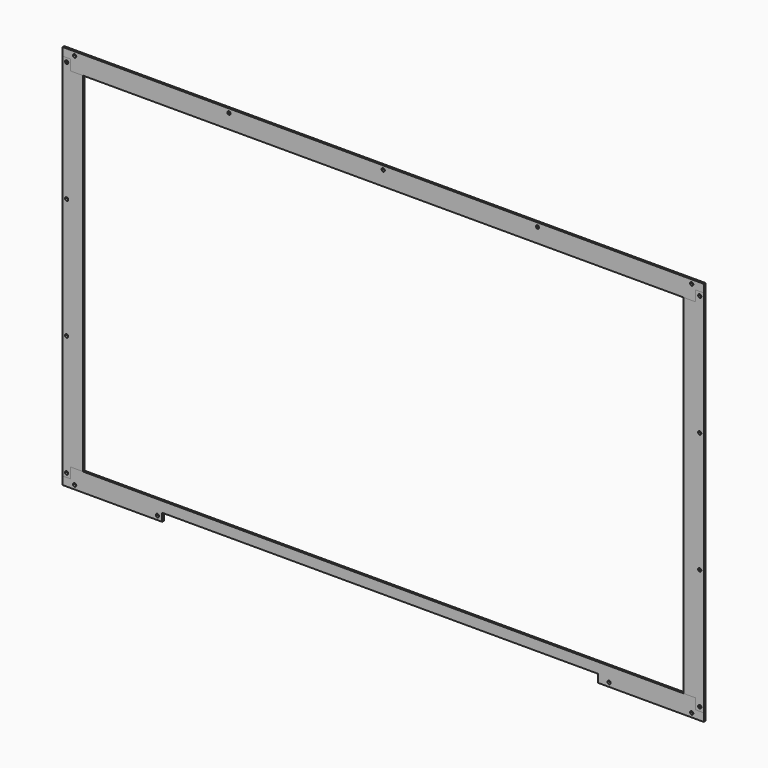
from build123d import *

# Parameters (mm, degrees)
F0_W     = 19.304
F0_H     = 552.45
F1_DEPTH = 1.5875
F0_R     = 5.969
F2_DEPTH = 1.5875
F3_DEPTH = 1.5875
F4_DEPTH = 1.5875


with BuildPart() as f1:
    # F0 (on Front) → F1 (new body, symmetric)
    with BuildSketch(Plane.XZ):
        Polygon((-495.3, 276.225), (-495.3, 292.89375), (-508, 292.89375), (-508, -292.89375), (-495.3, -292.89375), (-495.3, -276.225), align=None)
        Polygon((-504.19, -284.00375), (-501.65, -284.00375), (-499.11, -284.00375), (-499.11, -286.54375), (-499.11, -289.08375), (-501.65, -289.08375), (-504.19, -289.08375), (-504.19, -286.54375), align=None, mode=Mode.SUBTRACT)
        Polygon((-504.19, -92.974583), (-501.65, -92.974583), (-499.11, -92.974583), (-499.11, -95.514583), (-499.11, -98.054583), (-501.65, -98.054583), (-504.19, -98.054583), (-504.19, -95.514583), align=None, mode=Mode.SUBTRACT)
        Polygon((-504.19, 98.054583), (-501.65, 98.054583), (-499.11, 98.054583), (-499.11, 95.514583), (-499.11, 92.974583), (-501.65, 92.974583), (-504.19, 92.974583), (-504.19, 95.514583), align=None, mode=Mode.SUBTRACT)
        Polygon((-501.65, 284.00375), (-504.19, 284.00375), (-504.19, 286.54375), (-504.19, 289.08375), (-501.65, 289.08375), (-499.11, 289.08375), (-499.11, 286.54375), (-499.11, 284.00375), align=None, mode=Mode.SUBTRACT)
        with BuildLine():
            Line((-499.11, -284.00375), (-501.65, -284.00375))
            ThreePointArc((-501.65, -284.00375), (-499.853949, -284.747699), (-499.11, -286.54375))
            Line((-499.11, -286.54375), (-499.11, -284.00375))
        make_face()
        with BuildLine():
            ThreePointArc((-504.19, -286.54375), (-503.446051, -284.747699), (-501.65, -284.00375))
            Line((-501.65, -284.00375), (-504.19, -284.00375))
            Line((-504.19, -284.00375), (-504.19, -286.54375))
        make_face()
        with BuildLine():
            ThreePointArc((-501.65, -289.08375), (-503.446051, -288.339801), (-504.19, -286.54375))
            Line((-504.19, -286.54375), (-504.19, -289.08375))
            Line((-504.19, -289.08375), (-501.65, -289.08375))
        make_face()
        with BuildLine():
            Line((-499.11, -289.08375), (-499.11, -286.54375))
            ThreePointArc((-499.11, -286.54375), (-499.853949, -288.339801), (-501.65, -289.08375))
            Line((-501.65, -289.08375), (-499.11, -289.08375))
        make_face()
        with Locations((-485.648, 0)):
            Rectangle(F0_W, F0_H)
        with BuildLine():
            ThreePointArc((-501.65, -98.054583), (-503.446051, -97.310635), (-504.19, -95.514583))
            Line((-504.19, -95.514583), (-504.19, -98.054583))
            Line((-504.19, -98.054583), (-501.65, -98.054583))
        make_face()
        with BuildLine():
            Line((-499.11, -98.054583), (-499.11, -95.514583))
            ThreePointArc((-499.11, -95.514583), (-499.853949, -97.310635), (-501.65, -98.054583))
            Line((-501.65, -98.054583), (-499.11, -98.054583))
        make_face()
        with BuildLine():
            Line((-499.11, -92.974583), (-501.65, -92.974583))
            ThreePointArc((-501.65, -92.974583), (-499.853949, -93.718532), (-499.11, -95.514583))
            Line((-499.11, -95.514583), (-499.11, -92.974583))
        make_face()
        with BuildLine():
            ThreePointArc((-504.19, -95.514583), (-503.446051, -93.718532), (-501.65, -92.974583))
            Line((-501.65, -92.974583), (-504.19, -92.974583))
            Line((-504.19, -92.974583), (-504.19, -95.514583))
        make_face()
        with BuildLine():
            ThreePointArc((-504.19, 95.514583), (-503.446051, 97.310635), (-501.65, 98.054583))
            Line((-501.65, 98.054583), (-504.19, 98.054583))
            Line((-504.19, 98.054583), (-504.19, 95.514583))
        make_face()
        with BuildLine():
            Line((-499.11, 98.054583), (-501.65, 98.054583))
            ThreePointArc((-501.65, 98.054583), (-499.853949, 97.310635), (-499.11, 95.514583))
            Line((-499.11, 95.514583), (-499.11, 98.054583))
        make_face()
        with BuildLine():
            Line((-499.11, 92.974583), (-499.11, 95.514583))
            ThreePointArc((-499.11, 95.514583), (-499.853949, 93.718532), (-501.65, 92.974583))
            Line((-501.65, 92.974583), (-499.11, 92.974583))
        make_face()
        with BuildLine():
            ThreePointArc((-501.65, 92.974583), (-503.446051, 93.718532), (-504.19, 95.514583))
            Line((-504.19, 95.514583), (-504.19, 92.974583))
            Line((-504.19, 92.974583), (-501.65, 92.974583))
        make_face()
        with BuildLine():
            Line((-504.19, 289.08375), (-504.19, 286.54375))
            ThreePointArc((-504.19, 286.54375), (-503.446051, 288.339801), (-501.65, 289.08375))
            Line((-501.65, 289.08375), (-504.19, 289.08375))
        make_face()
        with BuildLine():
            Line((-499.11, 289.08375), (-501.65, 289.08375))
            ThreePointArc((-501.65, 289.08375), (-499.853949, 288.339801), (-499.11, 286.54375))
            Line((-499.11, 286.54375), (-499.11, 289.08375))
        make_face()
        with BuildLine():
            ThreePointArc((-499.11, 286.54375), (-499.853949, 284.747699), (-501.65, 284.00375))
            Line((-501.65, 284.00375), (-499.11, 284.00375))
            Line((-499.11, 284.00375), (-499.11, 286.54375))
        make_face()
        with BuildLine():
            Line((-504.19, 286.54375), (-504.19, 284.00375))
            Line((-504.19, 284.00375), (-501.65, 284.00375))
            ThreePointArc((-501.65, 284.00375), (-503.446051, 284.747699), (-504.19, 286.54375))
        make_face()
    extrude(amount=F1_DEPTH, both=True)


with BuildPart() as f2:
    # F0 (on Front) → F2 (new body, symmetric)
    with BuildSketch(Plane.XZ):
        Polygon((495.3, 276.225), (495.3, 292.89375), (-495.3, 292.89375), (-495.3, 276.225), (-475.996, 276.225), (475.996, 276.225), align=None)
        Polygon((-508, 292.89375), (-495.3, 292.89375), (-508, 305.59375), align=None)
        Polygon((-495.3, 292.89375), (495.3, 292.89375), (508, 292.89375), (508, 305.59375), (-508, 305.59375), align=None)
        with Locations((-488.95, 299.24375)):
            Circle(F0_R, mode=Mode.SUBTRACT)
        Polygon((-244.475, 301.78375), (-241.935, 301.78375), (-241.935, 299.24375), (-241.935, 296.70375), (-244.475, 296.70375), (-247.015, 296.70375), (-247.015, 299.24375), (-247.015, 301.78375), align=None, mode=Mode.SUBTRACT)
        Polygon((0, 301.78375), (2.54, 301.78375), (2.54, 299.24375), (2.54, 296.70375), (0, 296.70375), (-2.54, 296.70375), (-2.54, 299.24375), (-2.54, 301.78375), align=None, mode=Mode.SUBTRACT)
        Polygon((244.475, 296.70375), (241.935, 296.70375), (241.935, 299.24375), (241.935, 301.78375), (244.475, 301.78375), (247.015, 301.78375), (247.015, 299.24375), (247.015, 296.70375), align=None, mode=Mode.SUBTRACT)
        Polygon((486.41, 299.24375), (486.41, 301.78375), (488.95, 301.78375), (491.49, 301.78375), (491.49, 299.24375), (491.49, 296.70375), (488.95, 296.70375), (486.41, 296.70375), align=None, mode=Mode.SUBTRACT)
        with Locations((-488.95, 299.24375)):
            Circle(F0_R)
        Polygon((-486.41, 299.24375), (-486.41, 296.70375), (-488.95, 296.70375), (-491.49, 296.70375), (-491.49, 299.24375), (-491.49, 301.78375), (-488.95, 301.78375), (-486.41, 301.78375), align=None, mode=Mode.SUBTRACT)
        with BuildLine():
            Line((-491.49, 301.78375), (-491.49, 299.24375))
            ThreePointArc((-491.49, 299.24375), (-490.746051, 301.039801), (-488.95, 301.78375))
            Line((-488.95, 301.78375), (-491.49, 301.78375))
        make_face()
        with BuildLine():
            ThreePointArc((-488.95, 301.78375), (-487.153949, 301.039801), (-486.41, 299.24375))
            Line((-486.41, 299.24375), (-486.41, 301.78375))
            Line((-486.41, 301.78375), (-488.95, 301.78375))
        make_face()
        with BuildLine():
            Line((-488.95, 296.70375), (-486.41, 296.70375))
            Line((-486.41, 296.70375), (-486.41, 299.24375))
            ThreePointArc((-486.41, 299.24375), (-487.153949, 297.447699), (-488.95, 296.70375))
        make_face()
        with BuildLine():
            Line((-491.49, 296.70375), (-488.95, 296.70375))
            ThreePointArc((-488.95, 296.70375), (-490.746051, 297.447699), (-491.49, 299.24375))
            Line((-491.49, 299.24375), (-491.49, 296.70375))
        make_face()
        with BuildLine():
            ThreePointArc((-247.015, 299.24375), (-246.271051, 301.039801), (-244.475, 301.78375))
            Line((-244.475, 301.78375), (-247.015, 301.78375))
            Line((-247.015, 301.78375), (-247.015, 299.24375))
        make_face()
        with BuildLine():
            ThreePointArc((-244.475, 296.70375), (-246.271051, 297.447699), (-247.015, 299.24375))
            Line((-247.015, 299.24375), (-247.015, 296.70375))
            Line((-247.015, 296.70375), (-244.475, 296.70375))
        make_face()
        with BuildLine():
            Line((-241.935, 296.70375), (-241.935, 299.24375))
            ThreePointArc((-241.935, 299.24375), (-242.678949, 297.447699), (-244.475, 296.70375))
            Line((-244.475, 296.70375), (-241.935, 296.70375))
        make_face()
        with BuildLine():
            Line((-241.935, 299.24375), (-241.935, 301.78375))
            Line((-241.935, 301.78375), (-244.475, 301.78375))
            ThreePointArc((-244.475, 301.78375), (-242.678949, 301.039801), (-241.935, 299.24375))
        make_face()
        with BuildLine():
            ThreePointArc((-2.54, 299.24375), (-1.796051, 301.039801), (0, 301.78375))
            Line((0, 301.78375), (-2.54, 301.78375))
            Line((-2.54, 301.78375), (-2.54, 299.24375))
        make_face()
        with BuildLine():
            Line((2.54, 299.24375), (2.54, 301.78375))
            Line((2.54, 301.78375), (0, 301.78375))
            ThreePointArc((0, 301.78375), (1.796051, 301.039801), (2.54, 299.24375))
        make_face()
        with BuildLine():
            Line((2.54, 296.70375), (2.54, 299.24375))
            ThreePointArc((2.54, 299.24375), (1.796051, 297.447699), (0, 296.70375))
            Line((0, 296.70375), (2.54, 296.70375))
        make_face()
        with BuildLine():
            ThreePointArc((0, 296.70375), (-1.796051, 297.447699), (-2.54, 299.24375))
            Line((-2.54, 299.24375), (-2.54, 296.70375))
            Line((-2.54, 296.70375), (0, 296.70375))
        make_face()
        with BuildLine():
            Line((241.935, 301.78375), (241.935, 299.24375))
            ThreePointArc((241.935, 299.24375), (242.678949, 301.039801), (244.475, 301.78375))
            Line((244.475, 301.78375), (241.935, 301.78375))
        make_face()
        with BuildLine():
            ThreePointArc((244.475, 301.78375), (246.271051, 301.039801), (247.015, 299.24375))
            Line((247.015, 299.24375), (247.015, 301.78375))
            Line((247.015, 301.78375), (244.475, 301.78375))
        make_face()
        with BuildLine():
            ThreePointArc((247.015, 299.24375), (246.271051, 297.447699), (244.475, 296.70375))
            Line((244.475, 296.70375), (247.015, 296.70375))
            Line((247.015, 296.70375), (247.015, 299.24375))
        make_face()
        with BuildLine():
            Line((241.935, 299.24375), (241.935, 296.70375))
            Line((241.935, 296.70375), (244.475, 296.70375))
            ThreePointArc((244.475, 296.70375), (242.678949, 297.447699), (241.935, 299.24375))
        make_face()
        with BuildLine():
            Line((488.95, 301.78375), (486.41, 301.78375))
            Line((486.41, 301.78375), (486.41, 299.24375))
            ThreePointArc((486.41, 299.24375), (487.153949, 301.039801), (488.95, 301.78375))
        make_face()
        with BuildLine():
            Line((491.49, 301.78375), (488.95, 301.78375))
            ThreePointArc((488.95, 301.78375), (490.746051, 301.039801), (491.49, 299.24375))
            Line((491.49, 299.24375), (491.49, 301.78375))
        make_face()
        with BuildLine():
            Line((491.49, 296.70375), (491.49, 299.24375))
            ThreePointArc((491.49, 299.24375), (490.746051, 297.447699), (488.95, 296.70375))
            Line((488.95, 296.70375), (491.49, 296.70375))
        make_face()
        with BuildLine():
            ThreePointArc((488.95, 296.70375), (487.153949, 297.447699), (486.41, 299.24375))
            Line((486.41, 299.24375), (486.41, 296.70375))
            Line((486.41, 296.70375), (488.95, 296.70375))
        make_face()
    extrude(amount=F2_DEPTH, both=True)


with BuildPart() as f3:
    # F0 (on Front) → F3 (new body, symmetric)
    with BuildSketch(Plane.XZ):
        Polygon((508, 292.89375), (495.3, 292.89375), (495.3, 276.225), (495.3, -276.225), (495.3, -292.89375), (508, -292.89375), align=None)
        Polygon((501.65, -289.08375), (499.11, -289.08375), (499.11, -286.54375), (499.11, -284.00375), (501.65, -284.00375), (504.19, -284.00375), (504.19, -286.54375), (504.19, -289.08375), align=None, mode=Mode.SUBTRACT)
        Polygon((501.65, -98.054583), (499.11, -98.054583), (499.11, -95.514583), (499.11, -92.974583), (501.65, -92.974583), (504.19, -92.974583), (504.19, -95.514583), (504.19, -98.054583), align=None, mode=Mode.SUBTRACT)
        Polygon((504.19, 95.514583), (504.19, 92.974583), (501.65, 92.974583), (499.11, 92.974583), (499.11, 95.514583), (499.11, 98.054583), (501.65, 98.054583), (504.19, 98.054583), align=None, mode=Mode.SUBTRACT)
        Polygon((501.65, 284.00375), (499.11, 284.00375), (499.11, 286.54375), (499.11, 289.08375), (501.65, 289.08375), (504.19, 289.08375), (504.19, 286.54375), (504.19, 284.00375), align=None, mode=Mode.SUBTRACT)
        with BuildLine():
            ThreePointArc((501.65, -284.00375), (503.446051, -284.747699), (504.19, -286.54375))
            Line((504.19, -286.54375), (504.19, -284.00375))
            Line((504.19, -284.00375), (501.65, -284.00375))
        make_face()
        with BuildLine():
            ThreePointArc((504.19, -286.54375), (503.446051, -288.339801), (501.65, -289.08375))
            Line((501.65, -289.08375), (504.19, -289.08375))
            Line((504.19, -289.08375), (504.19, -286.54375))
        make_face()
        with BuildLine():
            Line((499.11, -286.54375), (499.11, -289.08375))
            Line((499.11, -289.08375), (501.65, -289.08375))
            ThreePointArc((501.65, -289.08375), (499.853949, -288.339801), (499.11, -286.54375))
        make_face()
        with BuildLine():
            Line((499.11, -284.00375), (499.11, -286.54375))
            ThreePointArc((499.11, -286.54375), (499.853949, -284.747699), (501.65, -284.00375))
            Line((501.65, -284.00375), (499.11, -284.00375))
        make_face()
        with Locations((485.648, 0)):
            Rectangle(F0_W, F0_H)
        with BuildLine():
            Line((499.11, 98.054583), (499.11, 95.514583))
            ThreePointArc((499.11, 95.514583), (499.853949, 97.310635), (501.65, 98.054583))
            Line((501.65, 98.054583), (499.11, 98.054583))
        make_face()
        with BuildLine():
            ThreePointArc((501.65, 98.054583), (503.446051, 97.310635), (504.19, 95.514583))
            Line((504.19, 95.514583), (504.19, 98.054583))
            Line((504.19, 98.054583), (501.65, 98.054583))
        make_face()
        with BuildLine():
            Line((501.65, 92.974583), (504.19, 92.974583))
            Line((504.19, 92.974583), (504.19, 95.514583))
            ThreePointArc((504.19, 95.514583), (503.446051, 93.718532), (501.65, 92.974583))
        make_face()
        with BuildLine():
            Line((499.11, 92.974583), (501.65, 92.974583))
            ThreePointArc((501.65, 92.974583), (499.853949, 93.718532), (499.11, 95.514583))
            Line((499.11, 95.514583), (499.11, 92.974583))
        make_face()
        with BuildLine():
            Line((499.11, -95.514583), (499.11, -98.054583))
            Line((499.11, -98.054583), (501.65, -98.054583))
            ThreePointArc((501.65, -98.054583), (499.853949, -97.310635), (499.11, -95.514583))
        make_face()
        with BuildLine():
            Line((499.11, -92.974583), (499.11, -95.514583))
            ThreePointArc((499.11, -95.514583), (499.853949, -93.718532), (501.65, -92.974583))
            Line((501.65, -92.974583), (499.11, -92.974583))
        make_face()
        with BuildLine():
            ThreePointArc((501.65, -92.974583), (503.446051, -93.718532), (504.19, -95.514583))
            Line((504.19, -95.514583), (504.19, -92.974583))
            Line((504.19, -92.974583), (501.65, -92.974583))
        make_face()
        with BuildLine():
            ThreePointArc((504.19, -95.514583), (503.446051, -97.310635), (501.65, -98.054583))
            Line((501.65, -98.054583), (504.19, -98.054583))
            Line((504.19, -98.054583), (504.19, -95.514583))
        make_face()
        with BuildLine():
            Line((499.11, 286.54375), (499.11, 284.00375))
            Line((499.11, 284.00375), (501.65, 284.00375))
            ThreePointArc((501.65, 284.00375), (499.853949, 284.747699), (499.11, 286.54375))
        make_face()
        with BuildLine():
            Line((499.11, 289.08375), (499.11, 286.54375))
            ThreePointArc((499.11, 286.54375), (499.853949, 288.339801), (501.65, 289.08375))
            Line((501.65, 289.08375), (499.11, 289.08375))
        make_face()
        with BuildLine():
            Line((504.19, 289.08375), (501.65, 289.08375))
            ThreePointArc((501.65, 289.08375), (503.446051, 288.339801), (504.19, 286.54375))
            Line((504.19, 286.54375), (504.19, 289.08375))
        make_face()
        with BuildLine():
            ThreePointArc((504.19, 286.54375), (503.446051, 284.747699), (501.65, 284.00375))
            Line((501.65, 284.00375), (504.19, 284.00375))
            Line((504.19, 284.00375), (504.19, 286.54375))
        make_face()
    extrude(amount=F3_DEPTH, both=True)


with BuildPart() as f4:
    # F0 (on Front) → F4 (new body, symmetric)
    with BuildSketch(Plane.XZ):
        Polygon((-495.3, -292.89375), (-508, -292.89375), (-508, -305.59375), (-350.29902, -305.59375), (-350.29902, -292.89375), align=None)
        Polygon((-486.41, -299.24375), (-486.41, -301.78375), (-488.95, -301.78375), (-491.49, -301.78375), (-491.49, -299.24375), (-491.49, -296.70375), (-488.95, -296.70375), (-486.41, -296.70375), align=None, mode=Mode.SUBTRACT)
        Polygon((-357.84, -296.70375), (-355.3, -296.70375), (-355.3, -299.24375), (-355.3, -301.78375), (-357.84, -301.78375), (-360.38, -301.78375), (-360.38, -299.24375), (-360.38, -296.70375), align=None, mode=Mode.SUBTRACT)
        Polygon((-475.996, -276.225), (-495.3, -276.225), (-495.3, -292.89375), (-350.29902, -292.89375), (-350.29902, -276.225), align=None)
        Polygon((495.3, -292.89375), (495.3, -276.225), (475.996, -276.225), (-350.29902, -276.225), (-350.29902, -292.89375), (340.29904, -292.89375), align=None)
        with BuildLine():
            Line((-491.49, -296.70375), (-491.49, -299.24375))
            ThreePointArc((-491.49, -299.24375), (-490.746051, -297.447699), (-488.95, -296.70375))
            Line((-488.95, -296.70375), (-491.49, -296.70375))
        make_face()
        with BuildLine():
            ThreePointArc((-488.95, -296.70375), (-487.153949, -297.447699), (-486.41, -299.24375))
            Line((-486.41, -299.24375), (-486.41, -296.70375))
            Line((-486.41, -296.70375), (-488.95, -296.70375))
        make_face()
        with BuildLine():
            Line((-488.95, -301.78375), (-486.41, -301.78375))
            Line((-486.41, -301.78375), (-486.41, -299.24375))
            ThreePointArc((-486.41, -299.24375), (-487.153949, -301.039801), (-488.95, -301.78375))
        make_face()
        with BuildLine():
            Line((-491.49, -301.78375), (-488.95, -301.78375))
            ThreePointArc((-488.95, -301.78375), (-490.746051, -301.039801), (-491.49, -299.24375))
            Line((-491.49, -299.24375), (-491.49, -301.78375))
        make_face()
        with BuildLine():
            ThreePointArc((-360.38, -299.24375), (-359.636051, -297.447699), (-357.84, -296.70375))
            Line((-357.84, -296.70375), (-360.38, -296.70375))
            Line((-360.38, -296.70375), (-360.38, -299.24375))
        make_face()
        with BuildLine():
            Line((-355.3, -299.24375), (-355.3, -296.70375))
            Line((-355.3, -296.70375), (-357.84, -296.70375))
            ThreePointArc((-357.84, -296.70375), (-356.043949, -297.447699), (-355.3, -299.24375))
        make_face()
        with BuildLine():
            Line((-355.3, -301.78375), (-355.3, -299.24375))
            ThreePointArc((-355.3, -299.24375), (-356.043949, -301.039801), (-357.84, -301.78375))
            Line((-357.84, -301.78375), (-355.3, -301.78375))
        make_face()
        with BuildLine():
            ThreePointArc((-357.84, -301.78375), (-359.636051, -301.039801), (-360.38, -299.24375))
            Line((-360.38, -299.24375), (-360.38, -301.78375))
            Line((-360.38, -301.78375), (-357.84, -301.78375))
        make_face()
        Polygon((508, -305.59375), (508, -292.89375), (495.3, -292.89375), (340.29904, -292.89375), (340.29904, -305.59375), align=None)
        Polygon((357.84, -296.70375), (360.38, -296.70375), (360.38, -299.24375), (360.38, -301.78375), (357.84, -301.78375), (355.3, -301.78375), (355.3, -299.24375), (355.3, -296.70375), align=None, mode=Mode.SUBTRACT)
        Polygon((486.41, -299.24375), (486.41, -296.70375), (488.95, -296.70375), (491.49, -296.70375), (491.49, -299.24375), (491.49, -301.78375), (488.95, -301.78375), (486.41, -301.78375), align=None, mode=Mode.SUBTRACT)
        with BuildLine():
            ThreePointArc((355.3, -299.24375), (356.043949, -297.447699), (357.84, -296.70375))
            Line((357.84, -296.70375), (355.3, -296.70375))
            Line((355.3, -296.70375), (355.3, -299.24375))
        make_face()
        with BuildLine():
            Line((360.38, -299.24375), (360.38, -296.70375))
            Line((360.38, -296.70375), (357.84, -296.70375))
            ThreePointArc((357.84, -296.70375), (359.636051, -297.447699), (360.38, -299.24375))
        make_face()
        with BuildLine():
            Line((360.38, -301.78375), (360.38, -299.24375))
            ThreePointArc((360.38, -299.24375), (359.636051, -301.039801), (357.84, -301.78375))
            Line((357.84, -301.78375), (360.38, -301.78375))
        make_face()
        with BuildLine():
            Line((355.3, -301.78375), (357.84, -301.78375))
            ThreePointArc((357.84, -301.78375), (356.043949, -301.039801), (355.3, -299.24375))
            Line((355.3, -299.24375), (355.3, -301.78375))
        make_face()
        with BuildLine():
            Line((488.95, -296.70375), (486.41, -296.70375))
            Line((486.41, -296.70375), (486.41, -299.24375))
            ThreePointArc((486.41, -299.24375), (487.153949, -297.447699), (488.95, -296.70375))
        make_face()
        with BuildLine():
            Line((491.49, -296.70375), (488.95, -296.70375))
            ThreePointArc((488.95, -296.70375), (490.746051, -297.447699), (491.49, -299.24375))
            Line((491.49, -299.24375), (491.49, -296.70375))
        make_face()
        with BuildLine():
            ThreePointArc((491.49, -299.24375), (490.746051, -301.039801), (488.95, -301.78375))
            Line((488.95, -301.78375), (491.49, -301.78375))
            Line((491.49, -301.78375), (491.49, -299.24375))
        make_face()
        with BuildLine():
            ThreePointArc((488.95, -301.78375), (487.153949, -301.039801), (486.41, -299.24375))
            Line((486.41, -299.24375), (486.41, -301.78375))
            Line((486.41, -301.78375), (488.95, -301.78375))
        make_face()
    extrude(amount=F4_DEPTH, both=True)


solid = Compound([f1.part, f2.part, f3.part, f4.part])
